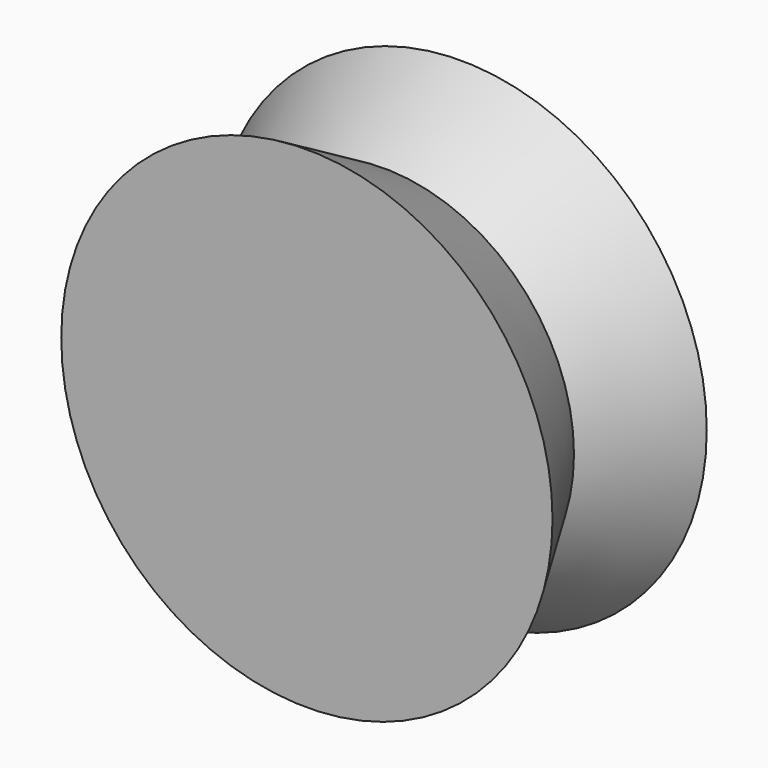
from build123d import *

# Parameters (mm, degrees)
F0_R      = 38.2257667239
F1_DEPTH  = 15
F1_TAPER  = 30
F1_FACE_R = 29.565512686
F2_DEPTH  = 15
F2_TAPER  = -30


with BuildPart() as f1:
    # F0 (on Front) → F1 (new body)
    with BuildSketch(Plane.XZ):
        Circle(F0_R)
    extrude(amount=F1_DEPTH, taper=F1_TAPER)

    # F1_face (on face) → F2 (join)
    with BuildSketch(Plane.XZ.offset(15)):
        Circle(F1_FACE_R)
    extrude(amount=F2_DEPTH, taper=F2_TAPER)


solid = f1.part
